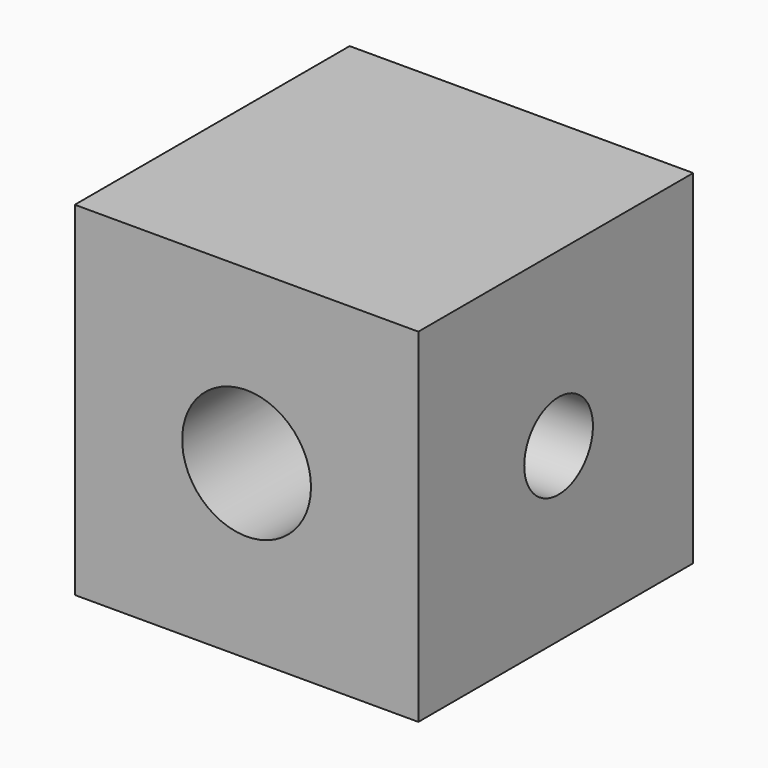
from build123d import *

# Parameters (mm, degrees)
F0_W     = 25.4
F0_H     = 25.4
F1_DEPTH = 25.4
F2_R     = 4.7625
F3_DEPTH = 64.516
F4_R     = 3.175
F5_DEPTH = 53.594


with BuildPart() as f1:
    # F0 (on Front) → F1 (new body)
    with BuildSketch(Plane.XZ):
        Rectangle(F0_W, F0_H)
    extrude(amount=F1_DEPTH)

    # F2 (on face) → F3 (cut)
    with BuildSketch(Plane.XZ.offset(25.4)):
        Circle(F2_R)
    extrude(amount=-F3_DEPTH, mode=Mode.SUBTRACT)

    # F4 (on face) → F5 (cut)
    with BuildSketch(Plane(origin=(-12.7, 0, 0), x_dir=(0, -1, 0), z_dir=(-1, 0, 0))):
        with Locations((12.440579, 0)):
            Circle(F4_R)
    extrude(amount=-F5_DEPTH, mode=Mode.SUBTRACT)


solid = f1.part
